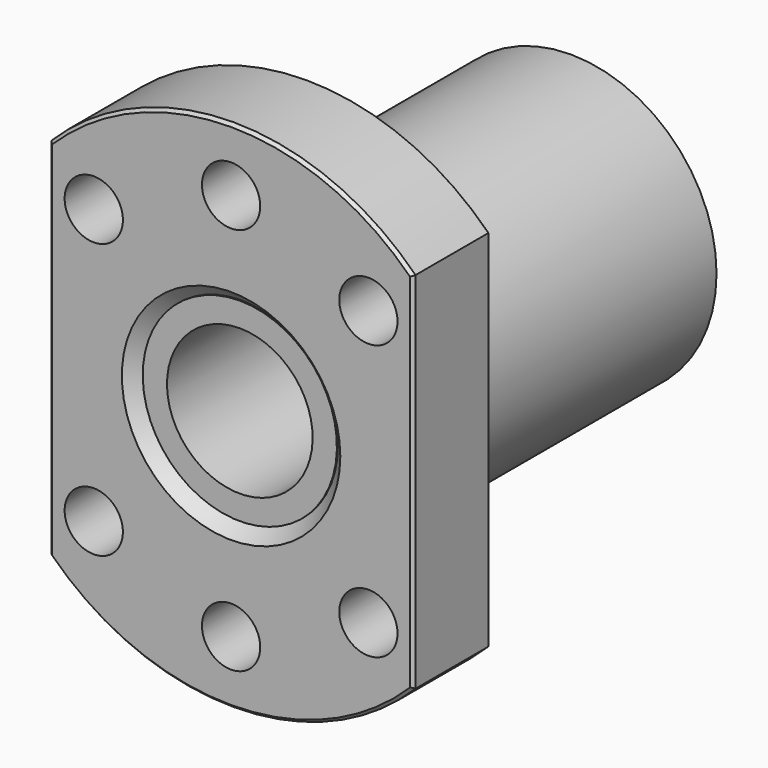
from build123d import *

# Parameters (mm, degrees)
SKETCH_R        = 8
PAD_DEPTH       = 8
SKETCH001_R     = 2.4
POCKET_DEPTH    = 8.001
SKETCH002_R     = 12
SKETCH002_R_2   = 8
PAD001_DEPTH    = 35
CHAMFER_SIZE    = 0.25
CHAMFER001_SIZE = 1
CHAMFER002_SIZE = 1


with BuildPart() as housing_inner:
    # Sketch003 → Revolution (revolve)
    with BuildSketch(Plane.YZ):
        Polygon((-7.1, 6), (-7.1, 8), (-2.1, 8), (-2.1, 9), (21.1, 9), (21.1, 8), (26.1, 8), (26.1, 6), align=None)
    revolve(axis=Axis((0, 0, 0), (0, 1, 0)))


with BuildPart() as ballnut:
    # Sketch → Pad (new body)
    with BuildSketch(Plane.XZ):
        with BuildLine():
            Line((15, 15), (15, -15))
            ThreePointArc((-15, -15), (0, -21.213203), (15, -15))
            Line((-15, -15), (-15, 15))
            ThreePointArc((15, 15), (0, 21.213203), (-15, 15))
        make_face()
        Circle(SKETCH_R, mode=Mode.SUBTRACT)
    extrude(amount=PAD_DEPTH)

    # Sketch001 → Pocket (cut, through all)
    with BuildSketch(Plane.XZ.offset(8)):
        with Locations((-11.313708, 11.313708)):
            Circle(SKETCH001_R)
        with Locations((0, 16)):
            Circle(SKETCH001_R)
        with Locations((11.313708, 11.313708)):
            Circle(SKETCH001_R)
        with Locations((11.313708, -11.313708)):
            Circle(SKETCH001_R)
        with Locations((0, -16)):
            Circle(SKETCH001_R)
        with Locations((-11.313708, -11.313708)):
            Circle(SKETCH001_R)
    extrude(amount=-POCKET_DEPTH, mode=Mode.SUBTRACT)

    # Sketch002 → Pad001 (new body)
    with BuildSketch(Plane.XZ.offset(8)):
        Circle(SKETCH002_R)
        Circle(SKETCH002_R_2, mode=Mode.SUBTRACT)
    extrude(amount=-PAD001_DEPTH)

    # Chamfer
    chamfer_edges = [ballnut.edges().sort_by_distance(p)[0] for p in [
        (0, -8, 21.213203),
        (0, 0, 21.213203),
        (15, 0, 0),
        (15, -8, 0),
        (0, 0, -21.213203),
        (0, -8, -21.213203),
        (-15, -8, 0),
        (-15, 0, 0),
    ]]
    chamfer(chamfer_edges, length=CHAMFER_SIZE)

    # Chamfer001
    chamfer001_edges = [ballnut.edges().sort_by_distance(p)[0] for p in [
        (-8, -8, 0),
    ]]
    chamfer(chamfer001_edges, length=CHAMFER001_SIZE)

    # Chamfer002
    chamfer002_edges = [ballnut.edges().sort_by_distance(p)[0] for p in [
        (-8, 27, 0),
    ]]
    chamfer(chamfer002_edges, length=CHAMFER002_SIZE)

    # Fusion: union housing-inner
    add(housing_inner.part)


solid = ballnut.part
